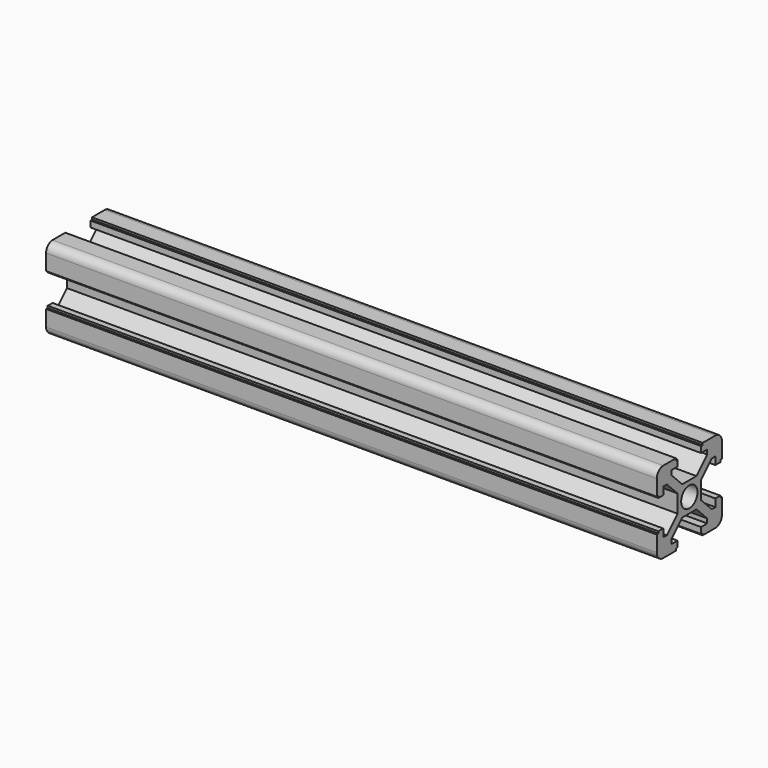
from build123d import *

# Parameters (mm, degrees)
F0_R     = 2.5
F1_DEPTH = 150


with BuildPart() as f1:
    # F0 (on Right) → F1 (new body)
    with BuildSketch(Plane.YZ):
        with BuildLine():
            ThreePointArc((10.0095693261, 7.9923210088), (9.4265099626, 9.411496018), (8.0095840678, 10))
            Line((8.0095840678, 10), (4.1, 10))
            Line((4.1, 10), (4.1, 9.5))
            Line((4.1, 9.5), (3.6, 9.5))
            Line((3.6, 9.5), (3.6, 8))
            Line((3.6, 8), (5.5, 8))
            Line((5.5, 8), (5.5, 6.9142135624))
            Line((5.5, 6.9142135624), (2.1857864376, 3.6))
            Line((2.1857864376, 3.6), (0, 3.6))
            Line((0, 3.6), (-2.1857864376, 3.6))
            Line((-2.1857864376, 3.6), (-5.5, 6.9142135624))
            Line((-5.5, 6.9142135624), (-5.5, 8))
            Line((-5.5, 8), (-3.6, 8))
            Line((-3.6, 8), (-3.6, 9.5))
            Line((-3.6, 9.5), (-4.1, 9.5))
            Line((-4.1, 9.5), (-4.1, 10))
            Line((-4.1, 10), (-8, 10))
            ThreePointArc((-8, 10), (-9.4142135624, 9.4142135624), (-10, 8))
            Line((-10, 8), (-10, 4.1))
            Line((-10, 4.1), (-9.5, 4.1))
            Line((-9.5, 4.1), (-9.5, 3.6))
            Line((-9.5, 3.6), (-8, 3.6))
            Line((-8, 3.6), (-8, 5.5))
            Line((-8, 5.5), (-6.9142135624, 5.5))
            Line((-6.9142135624, 5.5), (-3.6, 2.1857864376))
            Line((-3.6, 2.1857864376), (-3.6, 0))
            Line((-3.6, 0), (-3.6, -2.1857864376))
            Line((-3.6, -2.1857864376), (-6.9142135624, -5.5))
            Line((-6.9142135624, -5.5), (-8, -5.5))
            Line((-8, -5.5), (-8, -3.6))
            Line((-8, -3.6), (-9.5, -3.6))
            Line((-9.5, -3.6), (-9.5, -4.1))
            Line((-9.5, -4.1), (-10, -4.1))
            Line((-10, -4.1), (-10, -8))
            ThreePointArc((-10, -8), (-9.4142135624, -9.4142135624), (-8, -10))
            Line((-8, -10), (-4.1, -10))
            Line((-4.1, -10), (-4.1, -9.5))
            Line((-4.1, -9.5), (-3.6, -9.5))
            Line((-3.6, -9.5), (-3.6, -8))
            Line((-3.6, -8), (-5.5, -8))
            Line((-5.5, -8), (-5.5, -6.9142135624))
            Line((-5.5, -6.9142135624), (-2.1857864376, -3.6))
            Line((-2.1857864376, -3.6), (0, -3.6))
            Line((0, -3.6), (2.1857864376, -3.6))
            Line((2.1857864376, -3.6), (5.5, -6.9142135624))
            Line((5.5, -6.9142135624), (5.5, -8))
            Line((5.5, -8), (3.6, -8))
            Line((3.6, -8), (3.6, -9.5))
            Line((3.6, -9.5), (4.1, -9.5))
            Line((4.1, -9.5), (4.1, -10))
            Line((4.1, -10), (8, -10))
            ThreePointArc((8, -10), (9.4142135624, -9.4142135624), (10, -8))
            Line((10, -8), (10, -4.1))
            Line((10, -4.1), (9.5, -4.1))
            Line((9.5, -4.1), (9.5, -3.6))
            Line((9.5, -3.6), (8, -3.6))
            Line((8, -3.6), (8, -5.5))
            Line((8, -5.5), (6.9142135624, -5.5))
            Line((6.9142135624, -5.5), (3.6, -2.1857864376))
            Line((3.6, -2.1857864376), (3.6, 0))
            Line((3.6, 0), (3.6, 2.1857864376))
            Line((3.6, 2.1857864376), (6.9142135624, 5.5))
            Line((6.9142135624, 5.5), (8, 5.5))
            Line((8, 5.5), (8, 3.6))
            Line((8, 3.6), (9.5, 3.6))
            Line((9.5, 3.6), (9.5, 4.1))
            Line((9.5, 4.1), (10, 4.1))
            Line((10, 4.1), (10, 5.5))
            Line((10, 5.5), (10.0095693261, 7.9923210088))
        make_face()
        Circle(F0_R, mode=Mode.SUBTRACT)
    extrude(amount=F1_DEPTH)


solid = f1.part
